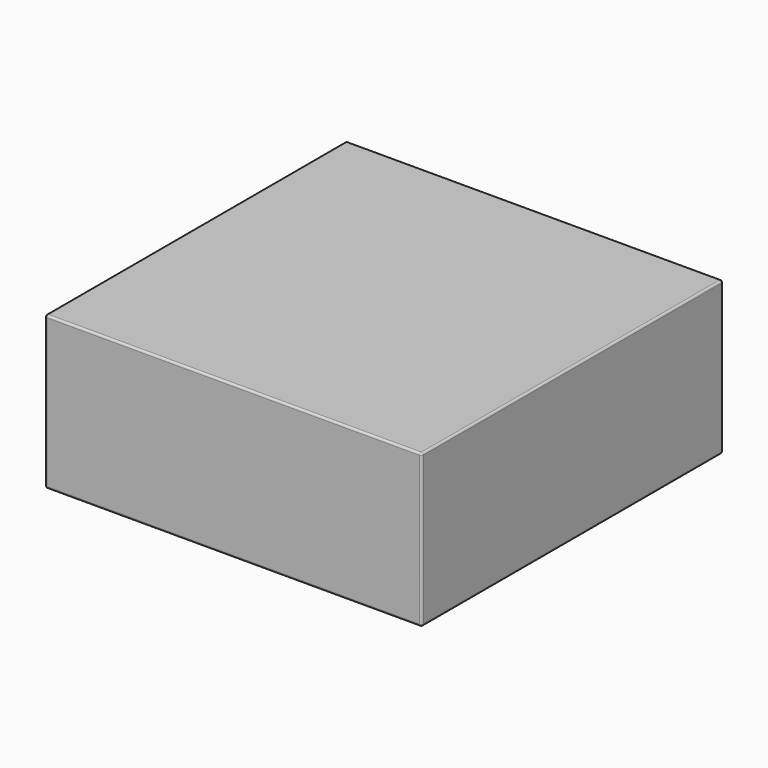
from build123d import *

# Parameters (mm, degrees)
SKETCH_W  = 185
SKETCH_H  = 185
PAD_DEPTH = 75
FILLET_R  = 1


with BuildPart() as part:
    # Sketch → Pad (new body)
    with BuildSketch(Plane.XY):
        with Locations((92.5, -92.5)):
            Rectangle(SKETCH_W, SKETCH_H)
    extrude(amount=PAD_DEPTH)

    # Fillet
    fillet_edges = [part.edges().sort_by_distance(p)[0] for p in [
        (0, 0, 37.5),
        (185, 0, 37.5),
        (92.5, 0, 0),
        (92.5, 0, 75),
        (185, -185, 37.5),
        (185, -92.5, 0),
        (185, -92.5, 75),
        (0, -185, 37.5),
        (92.5, -185, 0),
        (92.5, -185, 75),
        (0, -92.5, 0),
        (0, -92.5, 75),
    ]]
    fillet(fillet_edges, radius=FILLET_R)


solid = part.part
